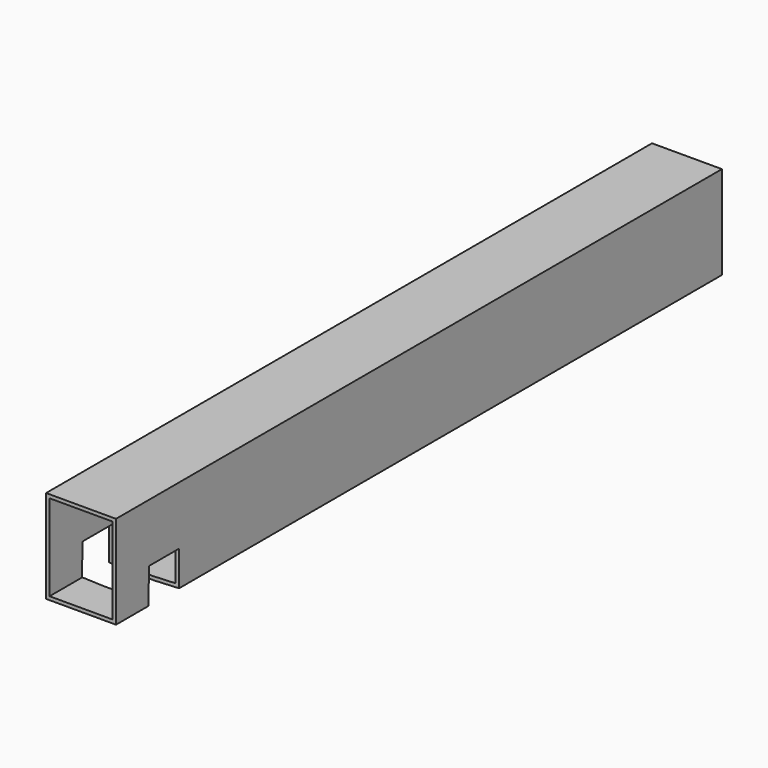
from build123d import *

# Parameters (mm, degrees)
F0_W          = 60
F0_H          = 80
F0_W_2        = 54
F0_H_2        = 74
F1_DEPTH      = 600
F1_DEPTH_BACK = 50
F3_DEPTH      = 30.001
F3_DEPTH_BACK = 30.001
F5_DEPTH      = 30


with BuildPart() as f1:
    # F0 (on Front) → F1 (new body, two sides)
    with BuildSketch(Plane.XZ) as f1_sk:
        with Locations((0, 10)):
            Rectangle(F0_W, F0_H)
        with Locations((0, 10)):
            Rectangle(F0_W_2, F0_H_2, mode=Mode.SUBTRACT)
    extrude(amount=-F1_DEPTH)
    extrude(f1_sk.sketch, amount=F1_DEPTH_BACK)

    # F2 (on Right) → F3 (cut, two sides)
    with BuildSketch(Plane.YZ) as f3_sk:
        with BuildLine():
            Line((15, -30), (15, -15))
            ThreePointArc((15, -15), (0, 0), (-15, -15))
            Line((-15, -15), (-15, -30))
            Line((-15, -30), (15, -30))
        make_face()
    extrude(amount=-F3_DEPTH, mode=Mode.SUBTRACT)
    extrude(f3_sk.sketch, amount=F3_DEPTH_BACK, mode=Mode.SUBTRACT)

    # F4 (on face) → F5 (cut)
    with BuildSketch(Plane(origin=(0, 0, -30), x_dir=(1, 0, 0), z_dir=(0, 0, -1))):
        with BuildLine():
            Line((30, -17.67809667), (30, 14.5012520842))
            ThreePointArc((30, 14.5012520842), (0, 16), (-30, 14.5012520842))
            Line((-30, 14.5012520842), (-30, -17.67809667))
            ThreePointArc((-30, -17.67809667), (0, -16), (30, -17.67809667))
        make_face()
    extrude(amount=-F5_DEPTH, mode=Mode.SUBTRACT)


solid = f1.part
